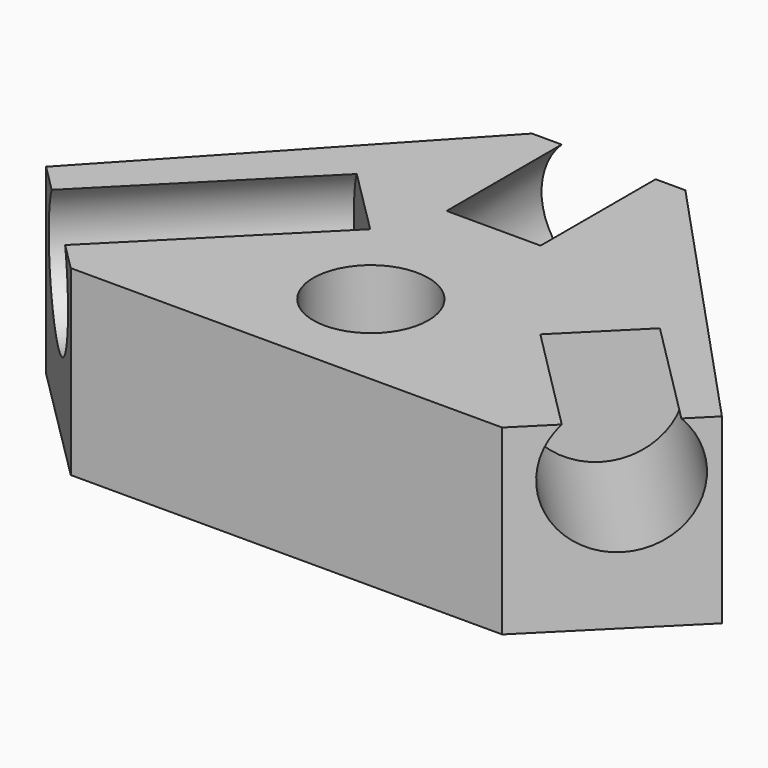
from build123d import *

# Parameters (mm, degrees)
F1_DEPTH = 19
F2_R     = 7
F3_DEPTH = 16
F4_R     = 7
F5_DEPTH = 25
F6_R     = 7
F7_DEPTH = 15
F8_R     = 6
F9_DEPTH = 19.001


with BuildPart() as f1:
    # F0 (on Top) → F1 (new body)
    with BuildSketch(Plane.XY):
        Polygon((-12.7437102583, 12.7121142558), (0, 0), (45, 0), (57.7437102583, 12.7121142558), (30.5, 42), (22.5, 42), (14.5, 42), align=None)
    extrude(amount=F1_DEPTH)

    # F2 (on face) → F3 (cut)
    with BuildSketch(Plane(origin=(22.4441456741, -22.4999306731, 0), x_dir=(0.7079839032, 0.7062285698, 0), z_dir=(0.7062285698, -0.7079839032, 0))):
        with Locations((41.6372567415, 14)):
            Circle(F2_R)
    extrude(amount=-F3_DEPTH, mode=Mode.SUBTRACT)

    # F4 (on face) → F5 (cut)
    with BuildSketch(Plane(origin=(0, 0, 0), x_dir=(0.7079839032, -0.7062285698, 0), z_dir=(-0.7062285698, -0.7079839032, 0))):
        with Locations((-9, 14)):
            Circle(F4_R)
    extrude(amount=-F5_DEPTH, mode=Mode.SUBTRACT)

    # F6 (on face) → F7 (cut)
    with BuildSketch(Plane(origin=(0, 42, 0), x_dir=(-1, 0, 0), z_dir=(0, 1, 0))):
        with Locations((-22.5, 14)):
            Circle(F6_R)
    extrude(amount=-F7_DEPTH, mode=Mode.SUBTRACT)

    # F8 (on face) → F9 (cut, through all)
    with BuildSketch(Plane.XY.offset(19)):
        with Locations((22.5, 11)):
            Circle(F8_R)
    extrude(amount=-F9_DEPTH, mode=Mode.SUBTRACT)


solid = f1.part
